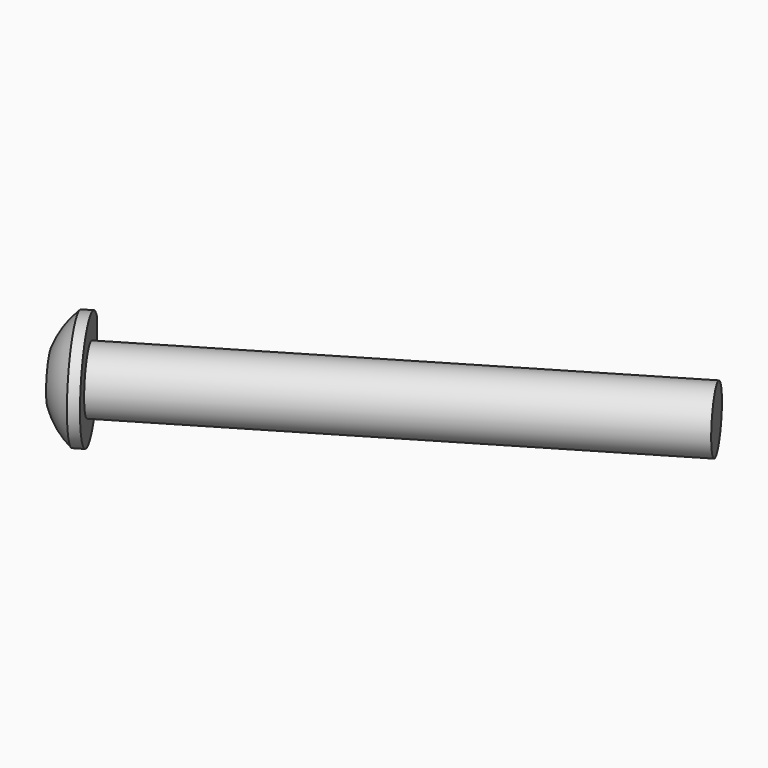
from build123d import *

# Parameters (mm, degrees)
F3_DEPTH = 25.4


with BuildPart() as f1:
    # F0 (on Top) → F1 (revolve)
    with BuildSketch(Plane.XY):
        Polygon((-61.442749696, 37.2325386005), (-59.02337489, 33.1746350891), (6.4266817462, 72.1968093792), (4.0073069402, 76.2547128906), align=None)
        Polygon((-63.3132761975, 40.3698846785), (-64.6768190441, 39.5569227141), (-60.3869177366, 32.3616731247), (-59.02337489, 33.1746350891), (-61.442749696, 37.2325386005), align=None)
        with BuildLine():
            Line((-60.3869177366, 32.3616731247), (-64.6768190441, 39.5569227141))
            ThreePointArc((-64.6768190441, 39.5569227141), (-65.2135492475, 36.7730616391), (-65.0268551106, 33.9440853056))
            Line((-65.0268551106, 33.9440853056), (-63.1140034297, 30.735749196))
            Line((-63.1140034297, 30.735749196), (-60.3869177366, 32.3616731247))
        make_face()
    revolve(axis=Axis((-26.2983465719, 52.6857222341, 0), (0.8589246278, 0.5121020248, 0)))

    # F2 (on face) → F3 (cut)
    with BuildSketch(Plane(origin=(-28.9524874881, -17.261849278, 0), x_dir=(-0.5121020248, 0.8589246278, 0), z_dir=(0.8589246278, 0.5121020248, 0))):
        with BuildLine():
            ThreePointArc((65.2331767239, -5.2687686729), (67.0975451083, 0), (65.2331767239, 5.2687686729))
            Line((65.2331767239, 5.2687686729), (65.2331767239, -5.2687686729))
        make_face()
    extrude(amount=-F3_DEPTH, mode=Mode.SUBTRACT)


solid = f1.part
